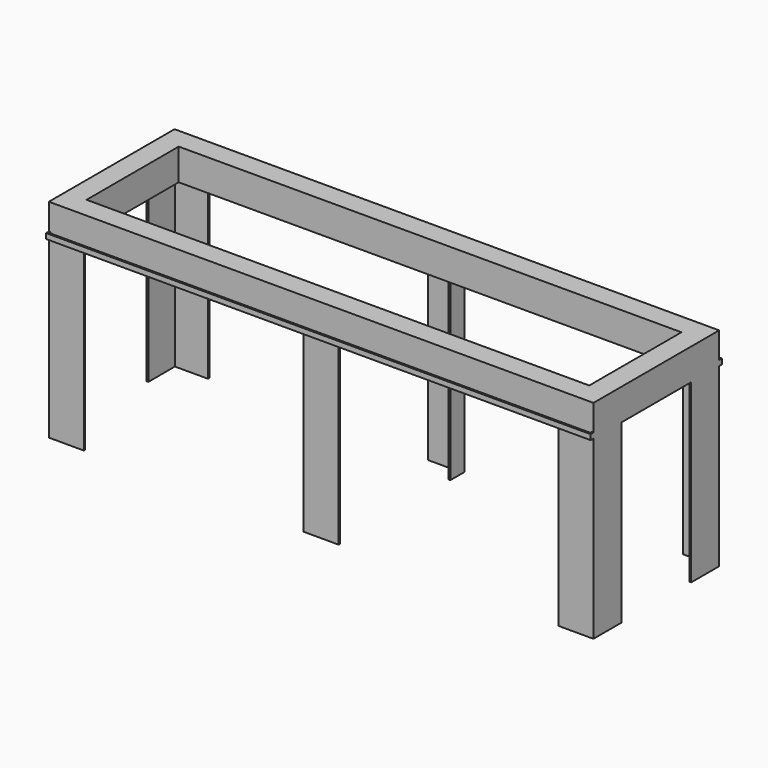
from build123d import *

# Parameters (mm, degrees)
F0_W      = 1560
F0_H      = 450
F0_W_2    = 1440
F0_H_2    = 330
F1_DEPTH  = 90
F3_DEPTH  = 505
F4_W      = 1560
F4_H      = 5
F6_DEPTH  = 10
F5_W      = 1560
F5_H      = 5
F7_DEPTH  = 10
F9_DEPTH  = 10
F11_DEPTH = 10


with BuildPart() as f1:
    # F0 (on Top) → F1 (new body)
    with BuildSketch(Plane.XY):
        Rectangle(F0_W, F0_H)
        Rectangle(F0_W_2, F0_H_2, mode=Mode.SUBTRACT)
    extrude(amount=F1_DEPTH)

    # F2 (on face) → F3 (join)
    with BuildSketch(Plane(origin=(0, 0, 0), x_dir=(1, 0, 0), z_dir=(0, 0, -1))):
        Polygon((-780, 225), (-780, 125), (-775, 125), (-775, 220), (-680, 220), (-680, 225), align=None)
        Polygon((-775, -125), (-780, -125), (-780, -225), (-680, -225), (-680, -220), (-775, -220), align=None)
        Polygon((50, 225), (-50, 225), (-50, 175), (-45, 175), (-45, 220), (50, 220), align=None)
        Polygon((-50, -220), (-50, -225), (50, -225), (50, -175), (45, -175), (45, -220), align=None)
        Polygon((780, 225), (680, 225), (680, 220), (775, 220), (775, 125), (780, 125), align=None)
        Polygon((680, -220), (680, -225), (780, -225), (780, -125), (775, -125), (775, -220), align=None)
    extrude(amount=F3_DEPTH)

    # F4 (on face) → F6 (join)
    with BuildSketch(Plane.XZ.offset(225)):
        with Locations((0, 2.5)):
            Rectangle(F4_W, F4_H)
    extrude(amount=F6_DEPTH)

    # F5 (on face) → F7 (join)
    with BuildSketch(Plane(origin=(0, 225, 0), x_dir=(-1, 0, 0), z_dir=(0, 1, 0))):
        with Locations((0, 2.5)):
            Rectangle(F5_W, F5_H)
    extrude(amount=F7_DEPTH)

    # F8 (on face) → F9 (join)
    with BuildSketch(Plane.XY.offset(5)):
        Polygon((-780, -230), (-780, -235), (-775, -235), (775, -235), (780, -235), (780, -230), (780, -225), (775, -225), (775, -230), (-775, -230), (-775, -225), (-780, -225), align=None)
    extrude(amount=F9_DEPTH)

    # F10 (on face) → F11 (join)
    with BuildSketch(Plane.XY.offset(5)):
        Polygon((-780, 235), (-780, 225), (-775, 225), (-775, 230), (775, 230), (775, 225), (780, 225), (780, 230), (780, 235), (-775, 235), align=None)
    extrude(amount=F11_DEPTH)


solid = f1.part
